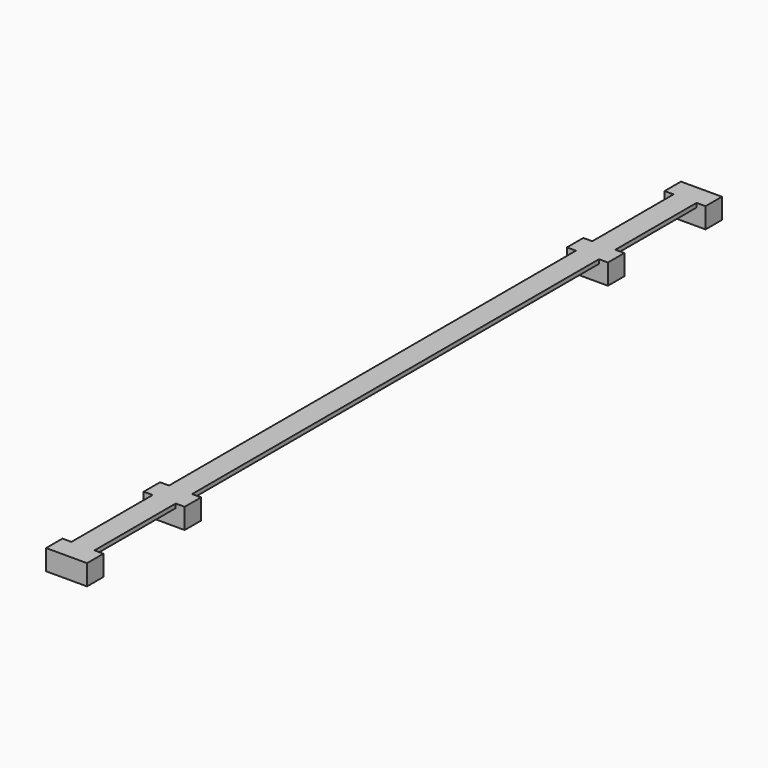
from build123d import *

# Parameters (mm, degrees)
SKETCH_W     = 4.5
SKETCH_H     = 0.8
PAD_DEPTH    = 155
SKETCH002_W  = 8
SKETCH002_H  = 4
PAD001_DEPTH = 4


with BuildPart() as part:
    # Sketch → Pad (new body)
    with BuildSketch(Plane.XZ):
        Rectangle(SKETCH_W, SKETCH_H)
    extrude(amount=PAD_DEPTH)

    # Sketch002 (on Face4 of Pad) → Pad001 (join)
    with BuildSketch(Plane(origin=(0, 0, 0.4), x_dir=(-1, 0, 0), z_dir=(0, 0, 1))):
        with Locations((0, 153)):
            Rectangle(SKETCH002_W, SKETCH002_H)
        with Locations((0, 129.166667)):
            Rectangle(SKETCH002_W, SKETCH002_H)
        with Locations((0, 25.833333)):
            Rectangle(SKETCH002_W, SKETCH002_H)
        with Locations((0, 2)):
            Rectangle(SKETCH002_W, SKETCH002_H)
    extrude(amount=-PAD001_DEPTH)


solid = part.part
